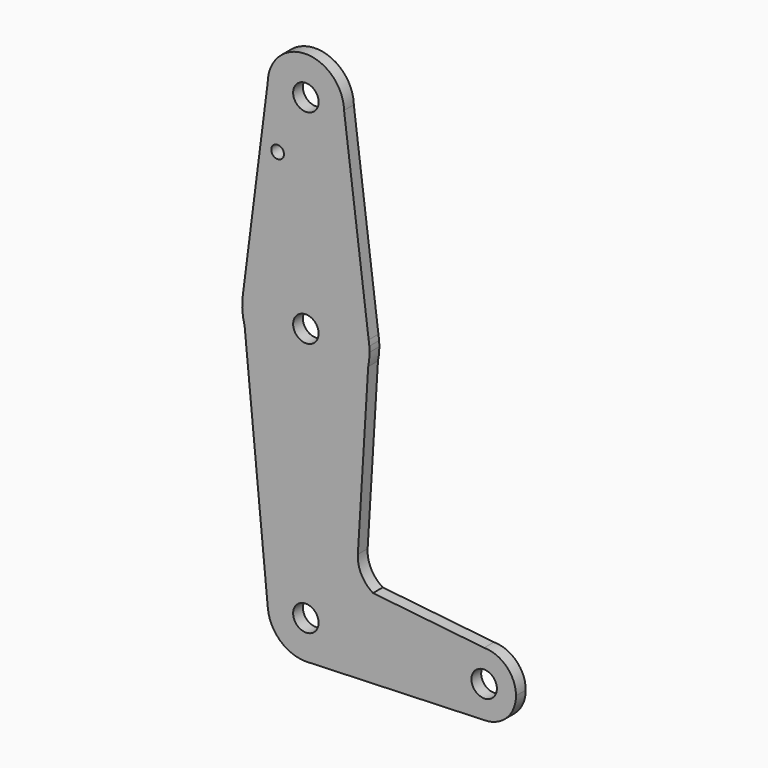
from build123d import *

# Parameters (mm, degrees)
F0_R     = 3.175
F0_R_2   = 1.5875
F1_DEPTH = 3.048


with BuildPart() as f1:
    # F0 (on Front) → F1 (new body)
    with BuildSketch(Plane.XZ):
        with BuildLine():
            ThreePointArc((-4.5669715753, -4.5729802786), (-4.3153758673, -2.9577820483), (-4.2312131673, -1.3252740502))
            ThreePointArc((-4.2312131673, -1.3252740502), (-4.2450729349, -0.6620580002), (-4.2866280371, 0))
            Line((-4.2866280371, 0), (-4.5669715753, -4.5729802786))
        make_face()
        with BuildLine():
            Line((-4.4560003348, 1.3367671399), (-4.2866280371, 0))
            ThreePointArc((-4.2866280371, 0), (-4.3571248588, 0.6701813991), (-4.4560003348, 1.3367671399))
        make_face()
        with BuildLine():
            Line((-4.5669715753, -4.5729802786), (-4.2866280371, 0))
            Line((-4.2866280371, 0), (-4.4560003348, 1.3367671399))
            ThreePointArc((-4.4560003348, 1.3367671399), (-20.438970052, 14.5462380975), (-35.8542475615, 0.6784818528))
            ThreePointArc((-35.8542475615, 0.6784818528), (-35.8936681559, 0.3396253414), (-35.9257982975, 0))
            Line((-35.9257982975, 0), (-35.3811577678, -5.648663051))
            ThreePointArc((-35.3811577678, -5.648663051), (-19.5523751209, -17.1906101141), (-4.5669715753, -4.5729802786))
        make_face()
        with Locations((-20.1062131673, -1.3252740502)):
            Circle(F0_R, mode=Mode.SUBTRACT)
        with BuildLine():
            Line((-7.1448464878, -46.6234274209), (-4.5669715753, -4.5729802786))
            ThreePointArc((-4.5669715753, -4.5729802786), (-19.5523751209, -17.1906101141), (-35.3811577678, -5.648663051))
            Line((-35.3811577678, -5.648663051), (-29.5872439978, -65.7394290648))
            ThreePointArc((-29.5872439978, -65.7394290648), (-20.5638190782, -55.3112726927), (-10.5812131673, -64.8252740502))
            ThreePointArc((-10.5812131673, -64.8252740502), (-13.1328818338, -71.3135924081), (-19.4207459994, -74.3255771908))
            Line((-19.4207459994, -74.3255771908), (24.3437868327, -72.7627740502))
            ThreePointArc((24.3437868327, -72.7627740502), (16.4062868327, -64.8252740502), (24.3437868327, -56.8877740502))
            Line((24.3437868327, -56.8877740502), (-3.3651471927, -53.8875533741))
            ThreePointArc((-3.3651471927, -53.8875533741), (-6.262159199, -50.7795411755), (-7.1448464878, -46.6234274209))
        make_face()
        with BuildLine():
            ThreePointArc((-35.8542475615, 0.6784818528), (-20.438970052, 14.5462380975), (-4.4560003348, 1.3367671399))
            Line((-4.4560003348, 1.3367671399), (-10.5839038466, 49.7011110221))
            ThreePointArc((-10.5839038466, 49.7011110221), (-10.5818858609, 49.5879264806), (-10.5812131673, 49.4747259498))
            ThreePointArc((-10.5812131673, 49.4747259498), (-20.1651651244, 39.9499083837), (-29.6304834385, 49.5926276057))
            Line((-29.6304834385, 49.5926276057), (-35.8542475615, 0.6784818528))
        make_face()
        with Locations((-27.1495711058, 35.1999259498)):
            Circle(F0_R_2, mode=Mode.SUBTRACT)
        with BuildLine():
            ThreePointArc((-35.9257982975, 0), (-35.9079312182, -2.8488657412), (-35.3811577678, -5.648663051))
            Line((-35.3811577678, -5.648663051), (-35.9257982975, 0))
        make_face()
        with BuildLine():
            ThreePointArc((-35.9257982975, 0), (-35.8936681559, 0.3396253414), (-35.8542475615, 0.6784818528))
            Line((-35.8542475615, 0.6784818528), (-35.9405765968, 0))
            Line((-35.9405765968, 0), (-35.9257982975, 0))
        make_face()
        with BuildLine():
            ThreePointArc((-10.5812131673, 49.4747259498), (-10.5818858609, 49.5879264806), (-10.5839038466, 49.7011110221))
            ThreePointArc((-10.5839038466, 49.7011110221), (-20.1604637364, 58.9995714538), (-29.6304834385, 49.5926276057))
            ThreePointArc((-29.6304834385, 49.5926276057), (-20.1651651244, 39.9499083837), (-10.5812131673, 49.4747259498))
        make_face()
        with Locations((-20.1062131673, 49.4747259498)):
            Circle(F0_R, mode=Mode.SUBTRACT)
        with BuildLine():
            ThreePointArc((-10.5812131673, -64.8252740502), (-20.5638190782, -55.3112726927), (-29.5872439978, -65.7394290648))
            ThreePointArc((-29.5872439978, -65.7394290648), (-26.5123040812, -71.8742189502), (-20.1122991437, -74.3502721059))
            Line((-20.1122991437, -74.3502721059), (-19.4207459994, -74.3255771908))
            ThreePointArc((-19.4207459994, -74.3255771908), (-13.1328818338, -71.3135924081), (-10.5812131673, -64.8252740502))
        make_face()
        with Locations((-20.1062131673, -64.8252740502)):
            Circle(F0_R, mode=Mode.SUBTRACT)
        with BuildLine():
            Line((-19.4207459994, -74.3255771908), (-20.1122991437, -74.3502721059))
            ThreePointArc((-20.1122991437, -74.3502721059), (-19.766298236, -74.3442069127), (-19.4207459994, -74.3255771908))
        make_face()
        with BuildLine():
            ThreePointArc((32.2812868327, -64.8252740502), (29.9564469084, -59.2126139746), (24.3437868327, -56.8877740502))
            ThreePointArc((24.3437868327, -56.8877740502), (16.4062868327, -64.8252740502), (24.3437868327, -72.7627740502))
            ThreePointArc((24.3437868327, -72.7627740502), (29.9564469084, -70.4379341259), (32.2812868327, -64.8252740502))
        make_face()
        with Locations((24.3437868327, -64.8252740502)):
            Circle(F0_R, mode=Mode.SUBTRACT)
    extrude(amount=F1_DEPTH)


solid = f1.part
